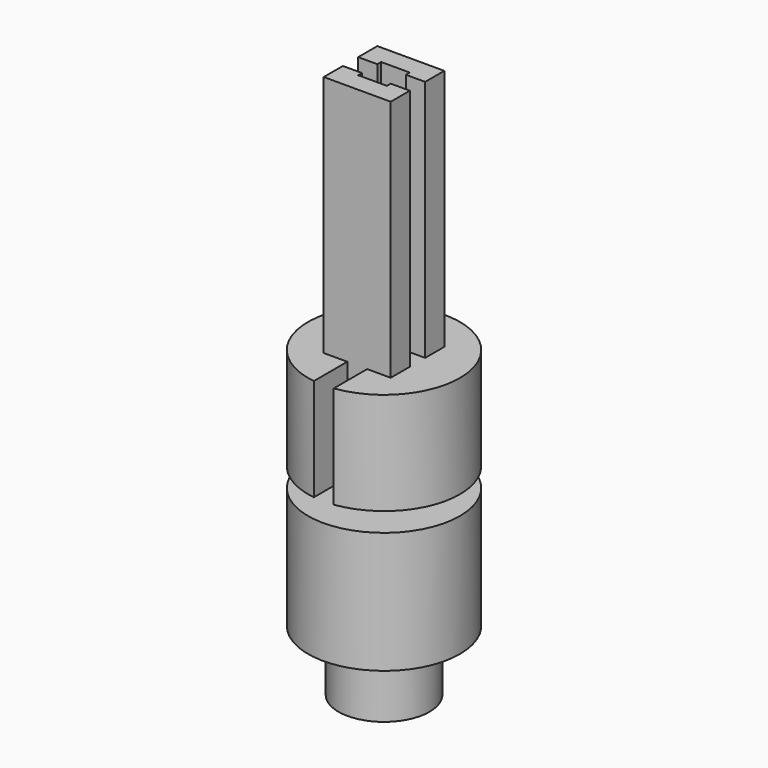
from build123d import *

# Parameters (mm, degrees)
F0_R      = 7.9375
F1_DEPTH  = 25.4
F2_R      = 4.7625
F3_DEPTH  = 6.35
F4_W      = 7
F4_H      = 7
F5_DEPTH  = 25.4
F6_W      = 3
F6_H      = 3
F7_DEPTH  = 25.4
F9_W      = 15.748512
F9_H      = 2
F10_DEPTH = 25.4
F12_W     = 2.079316
F12_H     = 12.7
F13_DEPTH = 25.4
F15_R     = 7.9375
F15_R_2   = 3.5
F16_DEPTH = 2


with BuildPart() as f1:
    # F0 (on Top) → F1 (new body)
    with BuildSketch(Plane.XY):
        Circle(F0_R)
    extrude(amount=F1_DEPTH)

    # F2 (on Top) → F3 (join)
    with BuildSketch(Plane.XY):
        Circle(F2_R)
    extrude(amount=-F3_DEPTH)

    # F4 (on face) → F5 (join)
    with BuildSketch(Plane.XY.offset(25.4)):
        Rectangle(F4_W, F4_H)
    extrude(amount=F5_DEPTH)


with BuildPart() as f7:
    # F6 (on face) → F7 (new body)
    with BuildSketch(Plane.XY.offset(25.4)):
        Rectangle(F6_W, F6_H)
    extrude(amount=F7_DEPTH)


with BuildPart() as f1_1:
    add(f1.part)

    # F8: cut F7
    add(f7.part, mode=Mode.SUBTRACT)


with BuildPart() as f10:
    # F9 (on face) → F10 (new body)
    with BuildSketch(Plane.XY.offset(25.4)):
        Rectangle(F9_W, F9_H)
    extrude(amount=F10_DEPTH)


with BuildPart() as f1_2:
    add(f1_1.part)

    # F11: cut F10
    add(f10.part, mode=Mode.SUBTRACT)


with BuildPart() as f13:
    # F12 (on face) → F13 (new body)
    with BuildSketch(Plane.XZ.offset(3.5)):
        with Locations((0, 19.05)):
            Rectangle(F12_W, F12_H)
    extrude(amount=F13_DEPTH)


with BuildPart() as f1_3:
    add(f1_2.part)

    # F14: cut F13
    add(f13.part, mode=Mode.SUBTRACT)


with BuildPart() as f16:
    # F15 (on face) → F16 (new body)
    with BuildSketch(Plane.XY.offset(12.7)):
        Circle(F15_R)
        Circle(F15_R_2, mode=Mode.SUBTRACT)
    extrude(amount=F16_DEPTH)


with BuildPart() as f1_4:
    add(f1_3.part)

    # F17: cut F16
    add(f16.part, mode=Mode.SUBTRACT)


solid = f1_4.part
